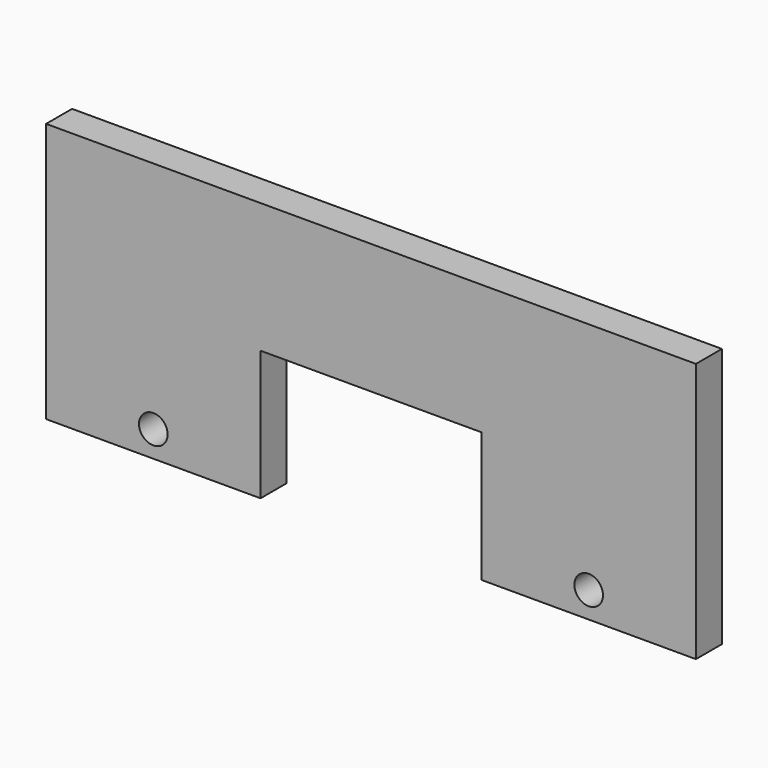
from build123d import *

# Parameters (mm, degrees)
F0_R     = 1.397
F1_DEPTH = 3.175


with BuildPart() as f1:
    # F0 (on Front) → F1 (new body)
    with BuildSketch(Plane.XZ):
        Polygon((31.75, 0), (31.75, 25.4), (-31.75, 25.4), (-31.75, 0), (-10.795, 0), (-10.795, 12.7), (10.795, 12.7), (10.795, 0), align=None)
        with Locations((-21.2725, 2.54)):
            Circle(F0_R, mode=Mode.SUBTRACT)
        with Locations((21.2725, 2.54)):
            Circle(F0_R, mode=Mode.SUBTRACT)
    extrude(amount=F1_DEPTH)


solid = f1.part
